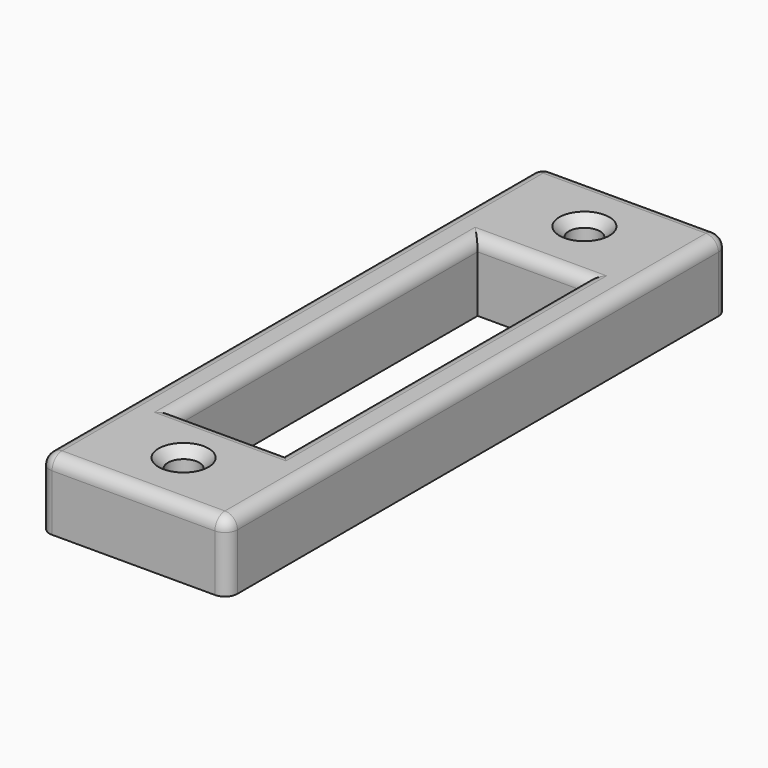
from build123d import *

# Parameters (mm, degrees)
F0_W     = 30
F0_H     = 100
F0_R     = 2.5
F0_W_2   = 17
F0_H_2   = 60
F1_DEPTH = 11
F2_R     = 2
F3_SIZE  = 1.5


with BuildPart() as f1:
    # F0 (on Top) → F1 (new body)
    with BuildSketch(Plane.XY):
        with Locations((5.474986, 0)):
            Rectangle(F0_W, F0_H)
        with Locations((5.474986, -40)):
            Circle(F0_R, mode=Mode.SUBTRACT)
        with Locations((5.474986, -0.691212)):
            Rectangle(F0_W_2, F0_H_2, mode=Mode.SUBTRACT)
        with Locations((5.474986, 40)):
            Circle(F0_R, mode=Mode.SUBTRACT)
    extrude(amount=F1_DEPTH)

    # F2
    f2_edges = [f1.edges().sort_by_distance(p)[0] for p in [
        (5.474986, 50, 11),
        (-9.525014, 0, 11),
        (20.474986, 0, 11),
        (5.474986, -50, 11),
        (-9.525014, -50, 5.5),
        (20.474986, -50, 5.5),
        (-9.525014, 50, 5.5),
        (20.474986, 50, 5.5),
        (13.974986, -0.691212, 11),
        (5.474986, -30.691212, 11),
        (-3.025014, -0.691212, 11),
        (5.474986, 29.308788, 11),
    ]]
    fillet(f2_edges, radius=F2_R)

    # F3
    f3_edges = [f1.edges().sort_by_distance(p)[0] for p in [
        (2.974986, 40, 11),
        (2.974986, -40, 11),
    ]]
    chamfer(f3_edges, length=F3_SIZE)


solid = f1.part
